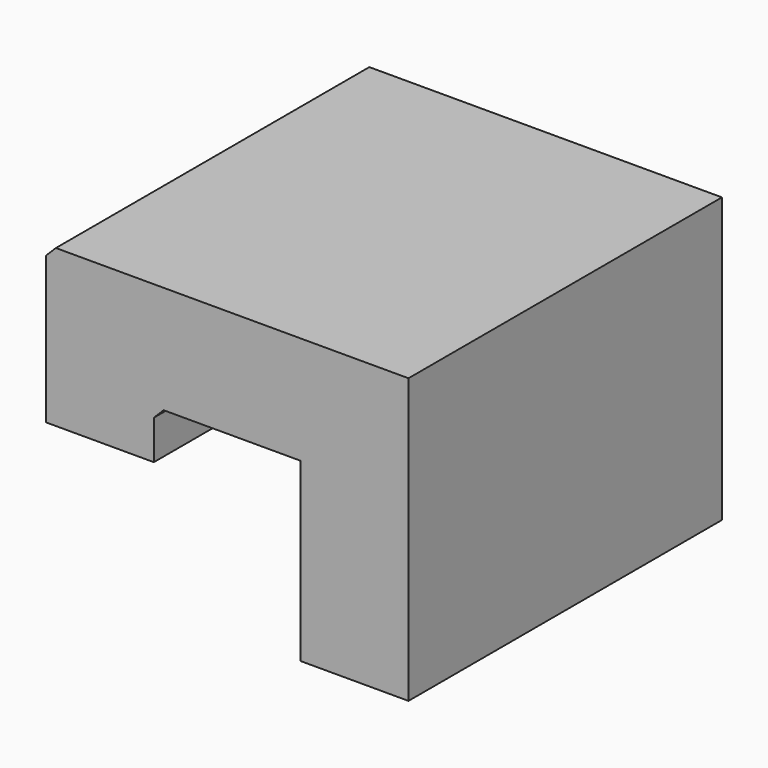
from build123d import *

# Parameters (mm, degrees)
F1_DEPTH = 4
F2_SIZE  = 0.1


with BuildPart() as f1:
    # F0 (on Front) → F1 (new body)
    with BuildSketch(Plane.XZ):
        Polygon((-1.1, 0), (0, 0), (0, 0.5), (1.5, 0.5), (1.5, -1.3), (2.6, -1.3), (2.6, 1.6), (-1.1, 1.6), align=None)
    extrude(amount=F1_DEPTH)

    # F2
    f2_edges = [f1.edges().sort_by_distance(p)[0] for p in [
        (0, -2, 0.5),
        (-1.1, -2, 1.6),
    ]]
    chamfer(f2_edges, length=F2_SIZE)


solid = f1.part
